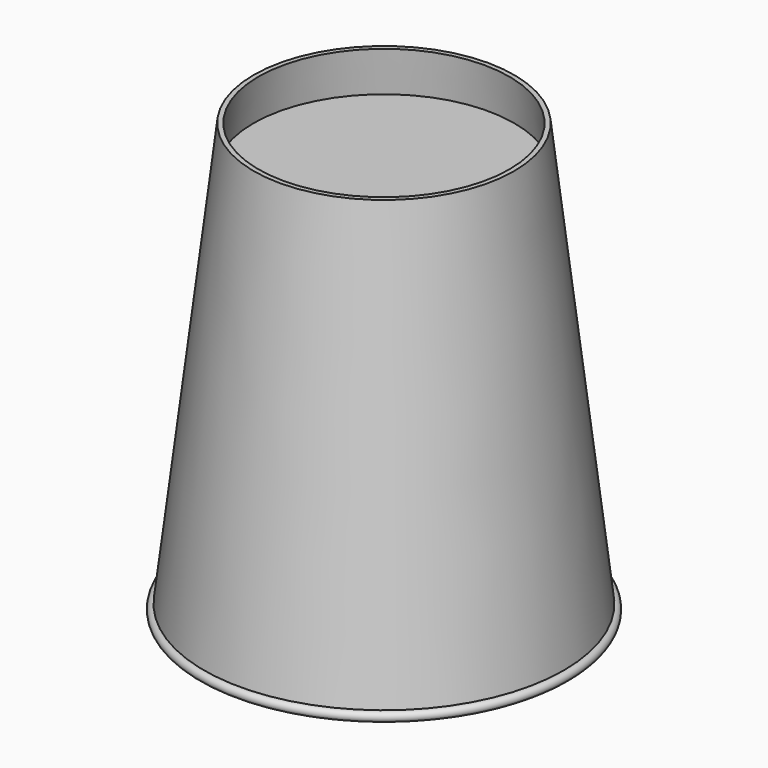
from build123d import *


with BuildPart() as part:
    # Sketch → Revolution (revolve)
    with BuildSketch(Plane.XZ):
        with BuildLine():
            Line((0, 82.364962), (-27.55722, 82.364962))
            Line((-27.55722, 82.364962), (-26.5, 91.364962))
            Line((-26.5, 91.364962), (-27.5, 91.364962))
            Line((-27.5, 91.364962), (-38, 1.97956))
            ThreePointArc((-38, 1.97956), (-38.895285, 0.377621), (-37.129481, 0.877301))
            Line((-37.129481, 0.877301), (-27.674688, 81.364962))
            Line((-27.674688, 81.364962), (0, 81.364962))
            Line((0, 81.364962), (0, 82.364962))
        make_face()
    revolve(axis=Axis((0, 0, 0), (0, 0, 1)))


solid = part.part
